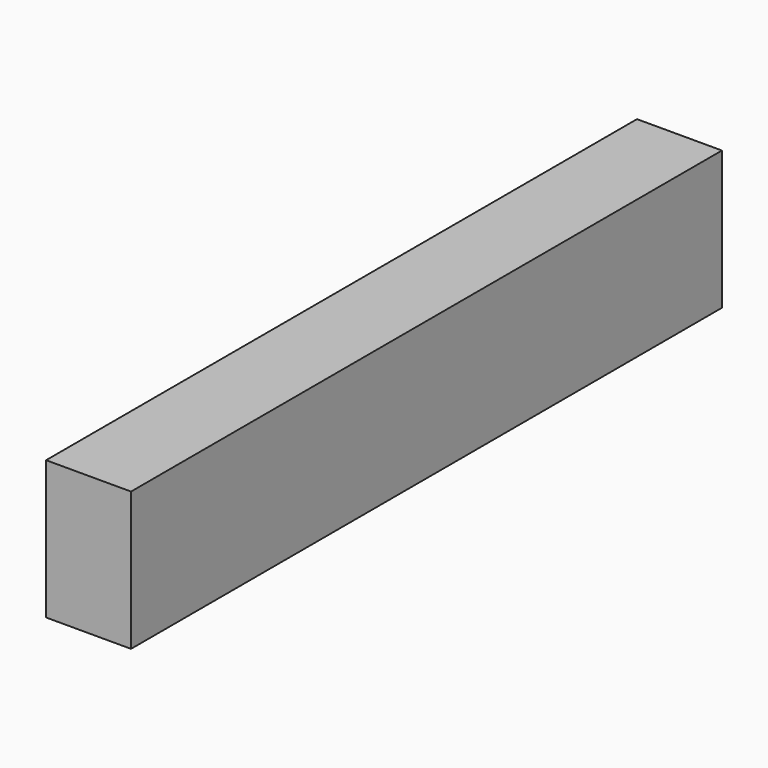
from build123d import *

# Parameters (mm, degrees)
SKETCH_W      = 29.052
SKETCH_H      = 298.8
EXTRUDE_DEPTH = 55.15
BOX_W         = 35.052
BOX_H         = 304.8
BOX_DEPTH     = 57.15


with BuildPart() as extrude_body:
    # Sketch → Extrude (new body)
    with BuildSketch(Plane(origin=(0, 0, 0), x_dir=(1, 0, 0), z_dir=(0, 0, -1))):
        with Locations((17.526, -152.4)):
            Rectangle(SKETCH_W, SKETCH_H)
    extrude(amount=-EXTRUDE_DEPTH)


with BuildPart() as cut:
    # Box → Box (new body)
    with BuildSketch(Plane.XY):
        with Locations((17.526, 152.4)):
            Rectangle(BOX_W, BOX_H)
    extrude(amount=BOX_DEPTH)

    # Cut: cut Extrude body
    add(extrude_body.part, mode=Mode.SUBTRACT)


solid = cut.part
